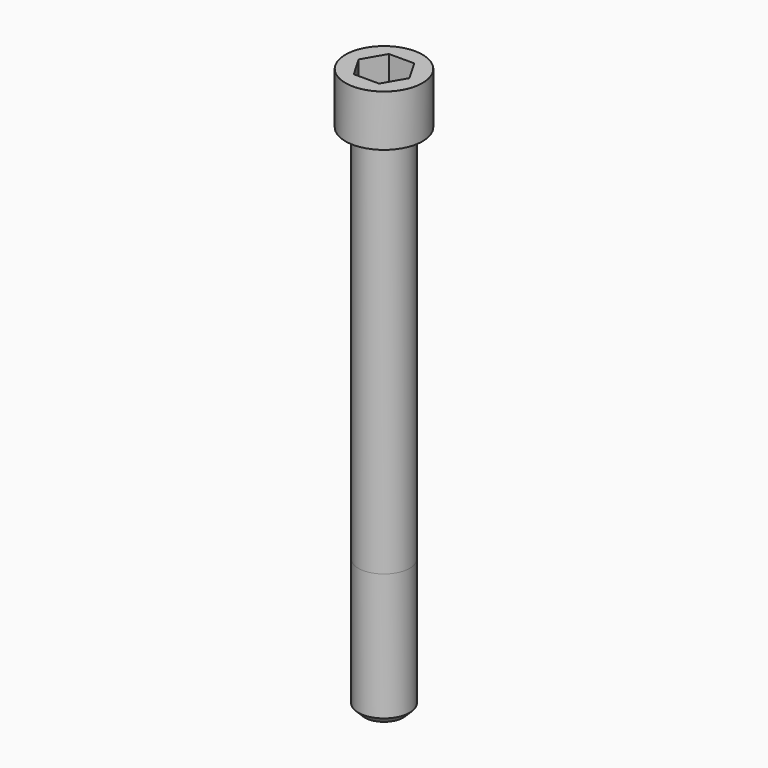
from build123d import *

# Parameters (mm, degrees)
POCKET_DEPTH = 17.1


with BuildPart() as part:
    # Sketch → Revolve (revolve)
    with BuildSketch(Plane.YZ):
        with BuildLine():
            Line((9.999, 0), (15, 0))
            Line((15, 0), (15, 19.97229))
            ThreePointArc((15, 19.97229), (14.991884, 19.991884), (14.97229, 20))
            Line((14.97229, 20), (0, 20))
            Line((0, -200), (0, 20))
            Line((7.5, -200), (0, -200))
            Line((10, -197.5), (7.5, -200))
            Line((10, -148), (10, -197.5))
            Line((9.999, 0), (10, -148))
        make_face()
    revolve(axis=Axis((0, 0, 0), (0, 0, 1)))

    # Sketch001 → Pocket (cut)
    with BuildSketch(Plane.XY.offset(20)):
        Polygon((9.87269, 0), (4.936345, 8.55), (-4.936345, 8.55), (-9.87269, 0), (-4.936345, -8.55), (4.936345, -8.55), align=None)
    extrude(amount=-POCKET_DEPTH, mode=Mode.SUBTRACT)


solid = part.part
